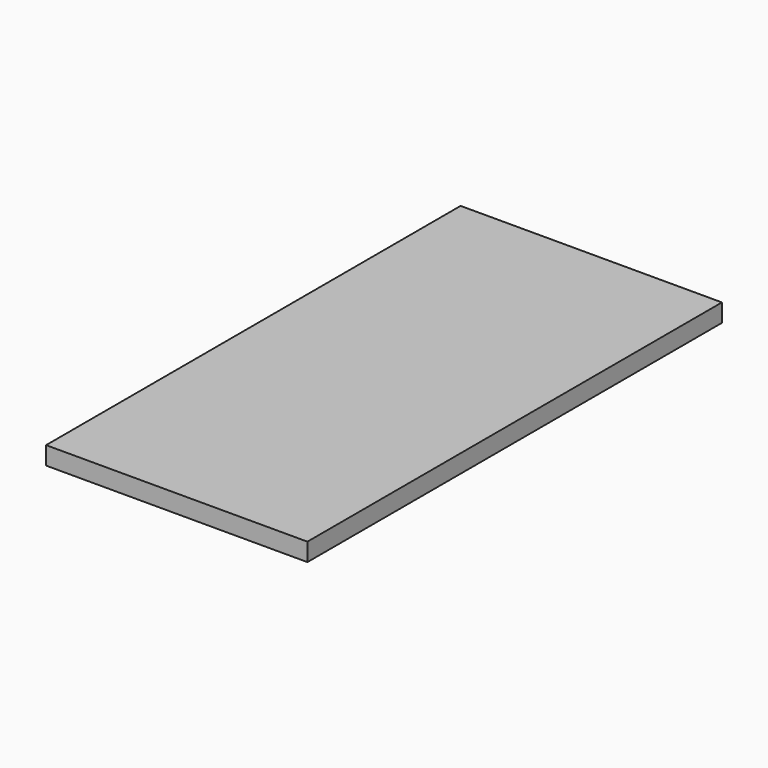
from build123d import *

# Parameters (mm, degrees)
F0_W     = 3683
F0_H     = 7302.5
F1_DEPTH = 254
F2_DEPTH = 101.6
F3_W     = 225.425
F3_H     = 1168.4
F3_H_2   = 292.1
F3_W_2   = 558.8
F3_H_3   = 901.7
F3_W_3   = 231.775
F4_DEPTH = 50.8


with BuildPart() as f1:
    # F0 (on Top) → F1 (new body)
    with BuildSketch(Plane.XY):
        with Locations((-1555.75, 3365.5)):
            Rectangle(F0_W, F0_H)
        Polygon((0, 5156.2), (0, 0), (-2343.15, 0), (-2343.15, 2794), (-3232.15, 2794), (-3232.15, 3810), (-2946.4, 3810), (-2946.4, 6731), (0, 6731), (0, 5899.15), (-34.925, 5899.15), (-34.925, 5156.2), align=None, mode=Mode.SUBTRACT)
    extrude(amount=-F1_DEPTH)

    # F0 (on Top) → F2 (join)
    with BuildSketch(Plane.XY):
        with Locations((-1555.75, 3365.5)):
            Rectangle(F0_W, F0_H)
        Polygon((0, 5156.2), (0, 0), (-2343.15, 0), (-2343.15, 2794), (-3232.15, 2794), (-3232.15, 3810), (-2946.4, 3810), (-2946.4, 6731), (0, 6731), (0, 5899.15), (-34.925, 5899.15), (-34.925, 5156.2), align=None, mode=Mode.SUBTRACT)
        Polygon((-2343.15, 0), (0, 0), (0, 5156.2), (-34.925, 5156.2), (-34.925, 5899.15), (0, 5899.15), (0, 6731), (-2946.4, 6731), (-2946.4, 3810), (-3232.15, 3810), (-3232.15, 2794), (-2343.15, 2794), align=None)
    extrude(amount=-F2_DEPTH)

    # F3 (on face) → F4 (cut)
    with BuildSketch(Plane(origin=(0, 0, -101.6), x_dir=(1, 0, 0), z_dir=(0, 0, -1))):
        Polygon((-2720.975, -3949.7), (-2720.975, -2794), (-3232.15, -2794), (-3232.15, -3810), (-2946.4, -3810), (-2946.4, -3949.7), align=None)
        with Locations((-2833.6875, -4584.7)):
            Rectangle(F3_W, F3_H)
        with Locations((-2833.6875, -5803.9)):
            Rectangle(F3_W, F3_H)
        with Locations((-2833.6875, -6584.95)):
            Rectangle(F3_W, F3_H_2)
        with Locations((-2390.775, -6280.15)):
            Rectangle(F3_W_2, F3_H_3)
        with Locations((-2390.775, -5194.3)):
            Rectangle(F3_W_2, F3_H)
        with Locations((-2390.775, -3975.1)):
            Rectangle(F3_W_2, F3_H)
        Polygon((-2111.375, -2171.7), (-2343.15, -2171.7), (-2343.15, -2794), (-2670.175, -2794), (-2670.175, -3340.1), (-2111.375, -3340.1), align=None)
        with Locations((-2227.2625, -1536.7)):
            Rectangle(F3_W_3, F3_H)
        with Locations((-2227.2625, -450.85)):
            Rectangle(F3_W_3, F3_H_3)
        with Locations((-1781.175, -146.05)):
            Rectangle(F3_W_2, F3_H_2)
        with Locations((-1781.175, -927.1)):
            Rectangle(F3_W_2, F3_H)
        with Locations((-1781.175, -2146.3)):
            Rectangle(F3_W_2, F3_H)
        with Locations((-1781.175, -3365.5)):
            Rectangle(F3_W_2, F3_H)
        with Locations((-1781.175, -4584.7)):
            Rectangle(F3_W_2, F3_H)
        with Locations((-1781.175, -5803.9)):
            Rectangle(F3_W_2, F3_H)
        with Locations((-1781.175, -6584.95)):
            Rectangle(F3_W_2, F3_H_2)
        with Locations((-1171.575, -6280.15)):
            Rectangle(F3_W_2, F3_H_3)
        with Locations((-1171.575, -5194.3)):
            Rectangle(F3_W_2, F3_H)
        with Locations((-1171.575, -3975.1)):
            Rectangle(F3_W_2, F3_H)
        with Locations((-1171.575, -2755.9)):
            Rectangle(F3_W_2, F3_H)
        with Locations((-1171.575, -1536.7)):
            Rectangle(F3_W_2, F3_H)
        with Locations((-1171.575, -450.85)):
            Rectangle(F3_W_2, F3_H_3)
        with Locations((-561.975, -146.05)):
            Rectangle(F3_W_2, F3_H_2)
        with Locations((-561.975, -927.1)):
            Rectangle(F3_W_2, F3_H)
        with Locations((-561.975, -2146.3)):
            Rectangle(F3_W_2, F3_H)
        with Locations((-561.975, -3365.5)):
            Rectangle(F3_W_2, F3_H)
        with Locations((-561.975, -4584.7)):
            Rectangle(F3_W_2, F3_H)
        with Locations((-561.975, -5803.9)):
            Rectangle(F3_W_2, F3_H)
        with Locations((-561.975, -6584.95)):
            Rectangle(F3_W_2, F3_H_2)
        Polygon((-34.925, -5899.15), (-34.925, -5829.3), (-231.775, -5829.3), (-231.775, -6731), (0, -6731), (0, -5899.15), align=None)
        Polygon((0, -5156.2), (0, -4610.1), (-231.775, -4610.1), (-231.775, -5778.5), (-34.925, -5778.5), (-34.925, -5156.2), align=None)
        with Locations((-115.8875, -3975.1)):
            Rectangle(F3_W_3, F3_H)
        with Locations((-115.8875, -2755.9)):
            Rectangle(F3_W_3, F3_H)
        with Locations((-115.8875, -1536.7)):
            Rectangle(F3_W_3, F3_H)
        with Locations((-115.8875, -450.85)):
            Rectangle(F3_W_3, F3_H_3)
    extrude(amount=-F4_DEPTH, mode=Mode.SUBTRACT)


solid = f1.part
